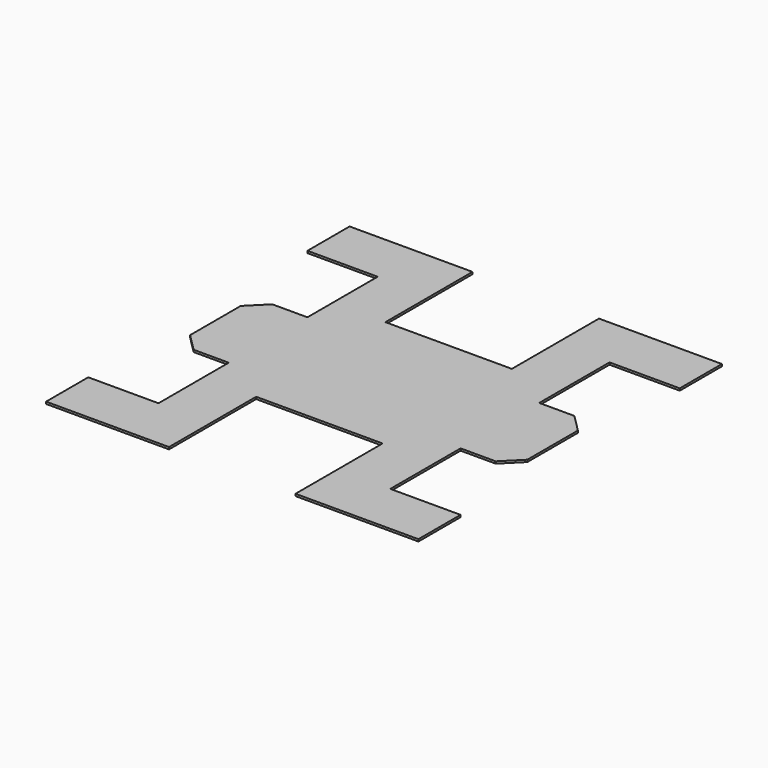
from build123d import *

# Parameters (mm, degrees)
F1_DEPTH = 0.6
F2_SIZE  = 5


with BuildPart() as f1:
    # F0 (on Top) → F1 (new body)
    with BuildSketch(Plane.XY):
        Polygon((-48, 14), (-48, 0), (-48, -14), (-33, -14), (-33, -39), (-53, -39), (-53, -54), (-18, -54), (-18, -23), (0, -23), (18, -23), (18, -54), (53, -54), (53, -39), (33, -39), (33, -14), (48, -14), (48, 0), (48, 14), (33, 14), (33, 39), (53, 39), (53, 54), (18, 54), (18, 23), (-18, 23), (-18, 54), (-53, 54), (-53, 39), (-33, 39), (-33, 14), align=None)
    extrude(amount=F1_DEPTH)

    # F2
    f2_edges = [f1.edges().sort_by_distance(p)[0] for p in [
        (-48, 14, 0.3),
        (-48, -14, 0.3),
        (48, 14, 0.3),
        (48, -14, 0.3),
    ]]
    chamfer(f2_edges, length=F2_SIZE)


solid = f1.part
